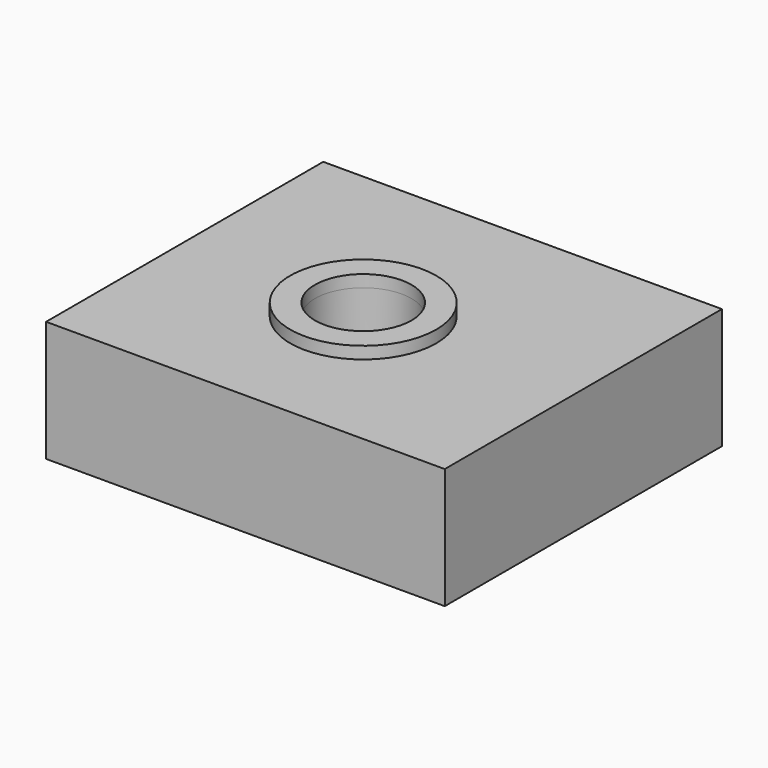
from build123d import *

# Parameters (mm, degrees)
F0_R     = 6.05
F0_R_2   = 4
F1_DEPTH = 1
F2_W     = 33.023218
F2_H     = 28.697219
F2_R     = 4
F3_DEPTH = 10


with BuildPart() as f1:
    # F0 (on Top) → F1 (new body)
    with BuildSketch(Plane.XY):
        Circle(F0_R)
        Circle(F0_R_2, mode=Mode.SUBTRACT)
    extrude(amount=-F1_DEPTH)

    # F2 (on face) → F3 (join)
    with BuildSketch(Plane(origin=(0, 0, -1), x_dir=(1, 0, 0), z_dir=(0, 0, -1))):
        with Locations((0.97089, -0.937286)):
            Rectangle(F2_W, F2_H)
        Circle(F2_R, mode=Mode.SUBTRACT)
    extrude(amount=F3_DEPTH)


solid = f1.part
